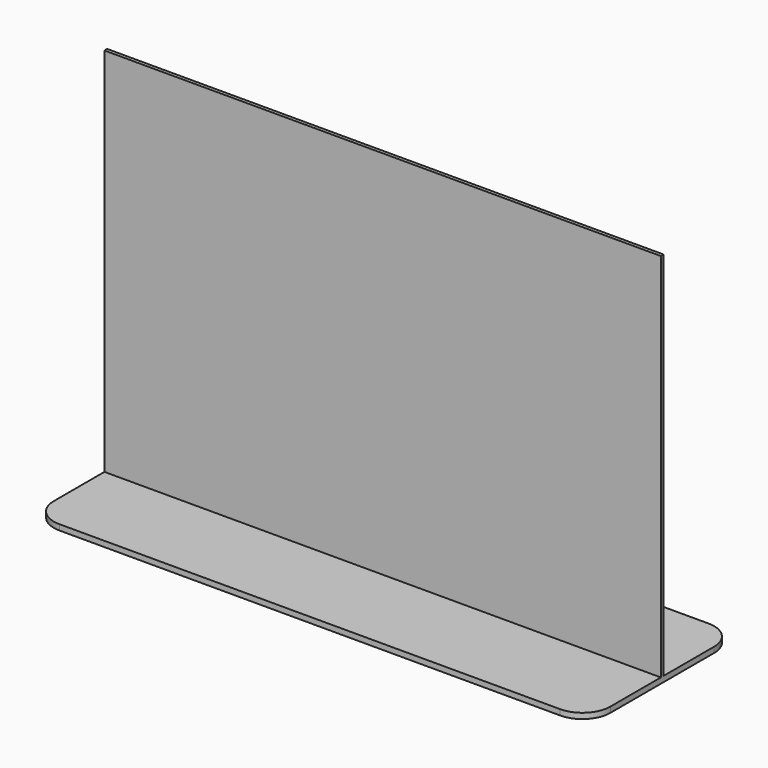
from build123d import *

# Parameters (mm, degrees)
PAD_DEPTH    = 0.6
SKETCH001_W  = 60
SKETCH001_H  = 0.37
PAD001_DEPTH = 40


with BuildPart() as part:
    # Sketch → Pad (new body)
    with BuildSketch(Plane.XY):
        with BuildLine():
            Line((-27, 10), (27, 10))
            ThreePointArc((30, 7), (29.12132, 9.12132), (27, 10))
            Line((30, 7), (30, -7))
            ThreePointArc((27, -10), (29.12132, -9.12132), (30, -7))
            Line((27, -10), (-27, -10))
            ThreePointArc((-30, -7), (-29.12132, -9.12132), (-27, -10))
            Line((-30, -7), (-30, 7))
            ThreePointArc((-27, 10), (-29.12132, 9.12132), (-30, 7))
        make_face()
    extrude(amount=PAD_DEPTH)

    # Sketch001 → Pad001 (join)
    with BuildSketch(Plane.XY.offset(0.6)):
        Rectangle(SKETCH001_W, SKETCH001_H)
    extrude(amount=PAD001_DEPTH)


solid = part.part
